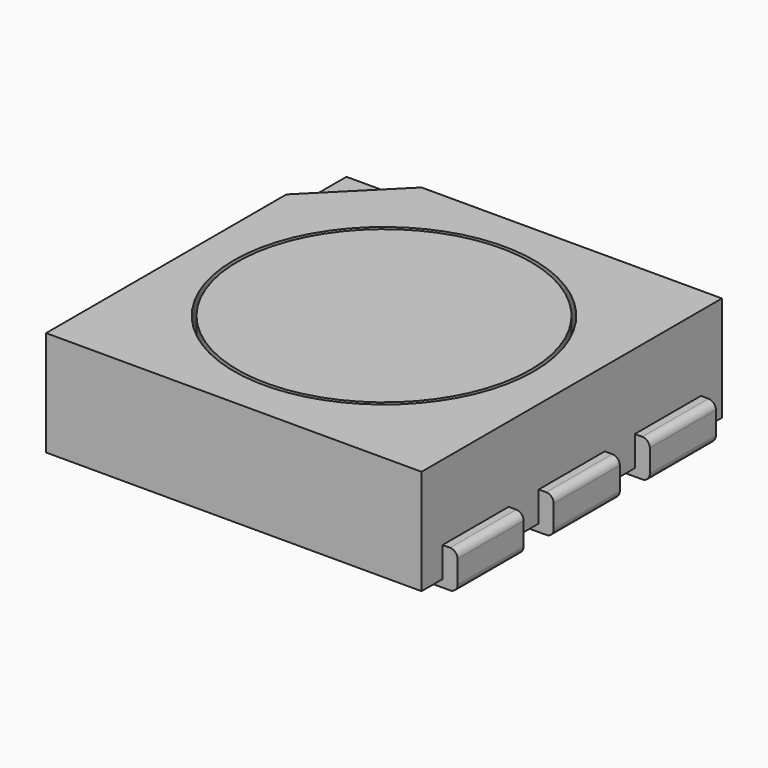
from build123d import *

# Parameters (mm, degrees)
SKETCH_W        = 5
SKETCH_H        = 5
PAD_DEPTH       = 1.4
SKETCH001_R     = 2
POCKET_DEPTH    = 0.5
SKETCH002_W     = 1.1
SKETCH002_H     = 0.5
PAD001_DEPTH    = 0.2
SKETCH003_W     = 1.1
SKETCH003_H     = 0.5
PAD002_DEPTH    = 0.2
SKETCH004_W     = 0.7
SKETCH004_H     = 1.1
PAD003_DEPTH    = 0.1
SKETCH005_R     = 1.95
PAD004_DEPTH    = 0.5
POCKET001_DEPTH = 0.2
FILLET_R        = 0.1


with BuildPart() as part:
    # Sketch → Pad (new body)
    with BuildSketch(Plane.XY):
        Rectangle(SKETCH_W, SKETCH_H)
    extrude(amount=PAD_DEPTH)

    # Sketch001 (on Face6 of Pad) → Pocket (cut)
    with BuildSketch(Plane.XY.offset(1.4)):
        Circle(SKETCH001_R)
    extrude(amount=-POCKET_DEPTH, mode=Mode.SUBTRACT)

    # Sketch002 (on Face2 of Pocket) → Pad001 (join)
    with BuildSketch(Plane(origin=(-2.5, 0, 0), x_dir=(0, -1, 0), z_dir=(-1, 0, 0))):
        with Locations((0, 0.15)):
            Rectangle(SKETCH002_W, SKETCH002_H)
        with Locations((1.6, 0.15)):
            Rectangle(SKETCH002_W, SKETCH002_H)
        with Locations((-1.6, 0.15)):
            Rectangle(SKETCH002_W, SKETCH002_H)
    extrude(amount=PAD001_DEPTH)

    # Sketch003 (on Face3 of Pad001) → Pad002 (join)
    with BuildSketch(Plane.YZ.offset(2.5)):
        with Locations((-1.6, 0.15)):
            Rectangle(SKETCH003_W, SKETCH003_H)
        with Locations((0, 0.15)):
            Rectangle(SKETCH003_W, SKETCH003_H)
        with Locations((1.6, 0.15)):
            Rectangle(SKETCH003_W, SKETCH003_H)
    extrude(amount=PAD002_DEPTH)

    # Sketch004 (on Face4 of Pad002) → Pad003 (join)
    with BuildSketch(Plane(origin=(0, 0, 0), x_dir=(1, 0, 0), z_dir=(0, 0, -1))):
        with Locations((-2.15, 1.6)):
            Rectangle(SKETCH004_W, SKETCH004_H)
        with Locations((-2.15, 0)):
            Rectangle(SKETCH004_W, SKETCH004_H)
        with Locations((-2.15, -1.6)):
            Rectangle(SKETCH004_W, SKETCH004_H)
        with Locations((2.15, 1.6)):
            Rectangle(SKETCH004_W, SKETCH004_H)
        with Locations((2.15, 0)):
            Rectangle(SKETCH004_W, SKETCH004_H)
        with Locations((2.15, -1.6)):
            Rectangle(SKETCH004_W, SKETCH004_H)
    extrude(amount=PAD003_DEPTH)

    # Sketch005 (on Face26 of Pad003) → Pad004 (join)
    with BuildSketch(Plane.XY.offset(0.9)):
        Circle(SKETCH005_R)
    extrude(amount=PAD004_DEPTH)

    # Sketch006 (on Face5 of Pad004) → Pocket001 (cut)
    with BuildSketch(Plane.XY.offset(1.4)):
        Polygon((-2.5, 2.5), (-1.5, 2.5), (-2.5, 1.5), align=None)
    extrude(amount=-POCKET001_DEPTH, mode=Mode.SUBTRACT)

    # Fillet
    fillet_edges = [part.edges().sort_by_distance(p)[0] for p in [
        (2.7, 1.6, 0.4),
        (2.7, 0, 0.4),
        (2.7, -1.6, 0.4),
        (-2.7, 1.6, 0.4),
        (-2.7, 0, 0.4),
        (-2.7, -1.6, 0.4),
        (-2.7, -1.6, -0.1),
        (-2.7, 0, -0.1),
        (-2.7, 1.6, -0.1),
        (2.7, 1.6, -0.1),
        (2.7, 0, -0.1),
        (2.7, -1.6, -0.1),
    ]]
    fillet(fillet_edges, radius=FILLET_R)


solid = part.part
